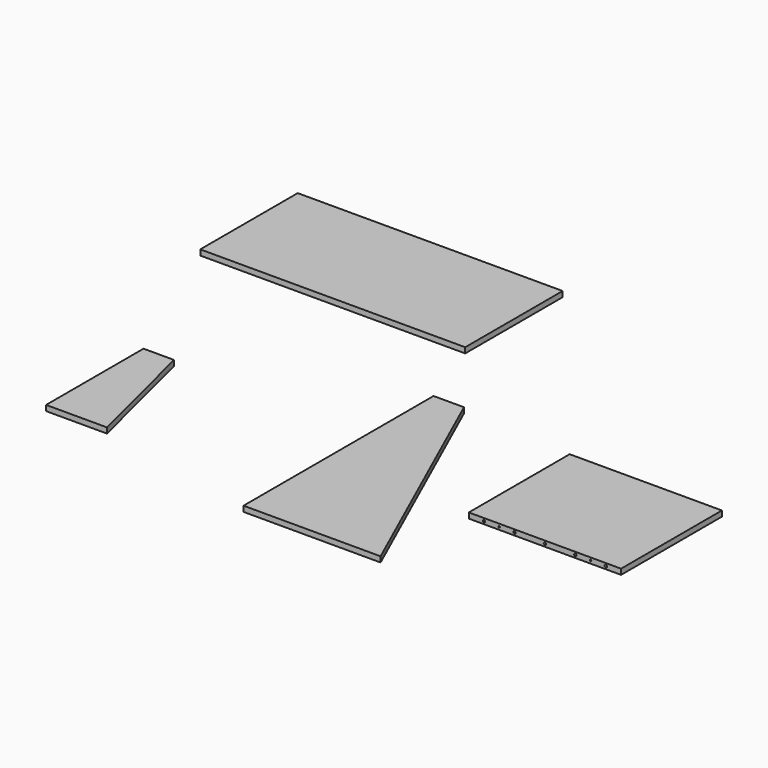
from build123d import *

# Parameters (mm, degrees)
F1_DEPTH  = 18
F2_W      = 500
F2_H      = 414
F3_DEPTH  = 18
F4_DEPTH  = 18
F6_D      = 8
F8_DEPTH  = 18
F9_W      = 870
F9_H      = 400
F10_DEPTH = 18
F11_D     = 5


with BuildPart() as f1:
    # F0 (on Top) → F1 (new body)
    with BuildSketch(Plane.XY):
        Polygon((-196.072614, 475.402147), (-196.072614, -304.597853), (253.927386, -304.597853), (-96.072614, 475.402147), align=None)
    extrude(amount=F1_DEPTH)


with BuildPart() as f3:
    # F2 (on face) → F3 (new body)
    with BuildSketch(Plane.XY.offset(18)):
        with Locations((550, 207)):
            Rectangle(F2_W, F2_H)
    extrude(amount=F3_DEPTH)

    # F2 (on face) → F4 (join)
    with BuildSketch(Plane.XY.offset(18)):
        with Locations((550, 207)):
            Rectangle(F2_W, F2_H)
    extrude(amount=F4_DEPTH)

    # F6 (through all)
    with Locations(Plane.XZ):
        with Locations((350, 27), (450, 27), (550, 27), (650, 27), (750, 27)):
            Hole(F6_D / 2)

    # F11 (through all)
    with Locations(Plane.XZ):
        with Locations((400, 27), (700, 27)):
            Hole(F11_D / 2)


with BuildPart() as f8:
    # F7 (on Top) → F8 (new body)
    with BuildSketch(Plane.XY):
        Polygon((-941.011737, 216.118392), (-941.011737, -183.881608), (-741.011737, -183.881608), (-841.011737, 216.118392), align=None)
    extrude(amount=F8_DEPTH)


with BuildPart() as f10:
    # F9 (on Top) → F10 (new body)
    with BuildSketch(Plane.XY):
        with Locations((-736.880773, 937.600613)):
            Rectangle(F9_W, F9_H)
    extrude(amount=F10_DEPTH)


solid = Compound([f1.part, f3.part, f8.part, f10.part])
